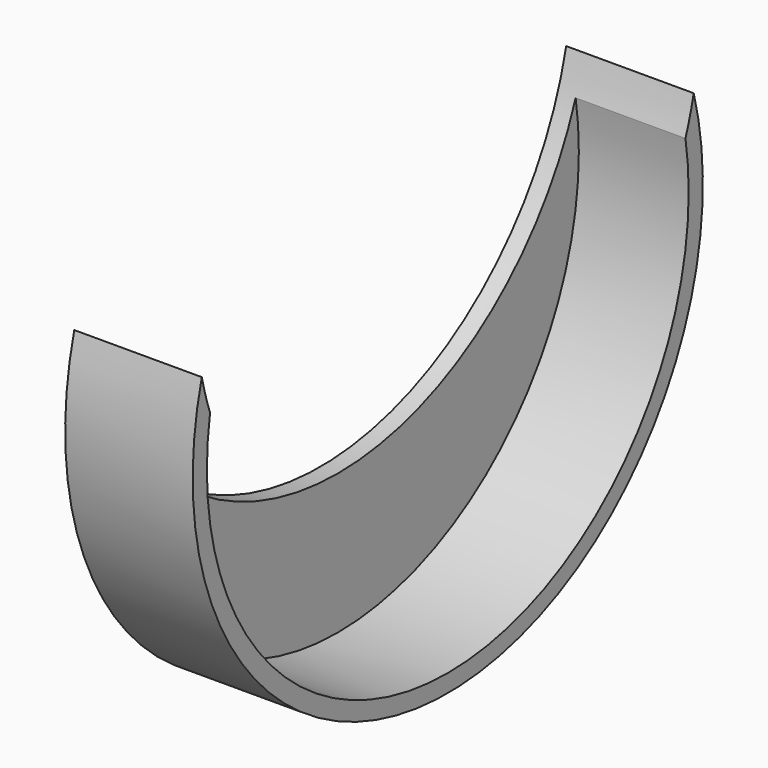
from build123d import *

# Parameters (mm, degrees)
F0_W = 18
F0_H = 45
F3_D = 6
F5_T = -2.5
F6_D = 89
F8_D = 2


with BuildPart() as f1:
    # F0 (on Front) → F1 (revolve)
    with BuildSketch(Plane.XZ):
        with Locations((9, 22.5)):
            Rectangle(F0_W, F0_H)
    revolve(axis=Axis((9, 0, 0), (1, 0, 0)))

    # F3 (through all)
    with Locations(Plane(origin=(0, 0, 0), x_dir=(0, 1, 0), z_dir=(-1, 0, 0))):
        with Locations((0, 0)):
            Hole(F3_D / 2)

    # F5
    f5_openings = [f1.faces().sort_by_distance(p)[0] for p in [
        (18, 0, -43.727208),
    ]]
    offset(amount=F5_T, openings=f5_openings)

    # F6 (through all)
    with Locations(Plane(origin=(0, 0, 0), x_dir=(0, 1, 0), z_dir=(-1, 0, 0))):
        with Locations((0, -21.7700034969)):
            Hole(F6_D / 2)

    # F8 (through all)
    with Locations(Plane(origin=(0, 0, 0), x_dir=(0, 1, 0), z_dir=(-1, 0, 0))):
        with Locations((-39.3494814634, 5.6586829014)):
            Hole(F8_D / 2)


solid = f1.part
